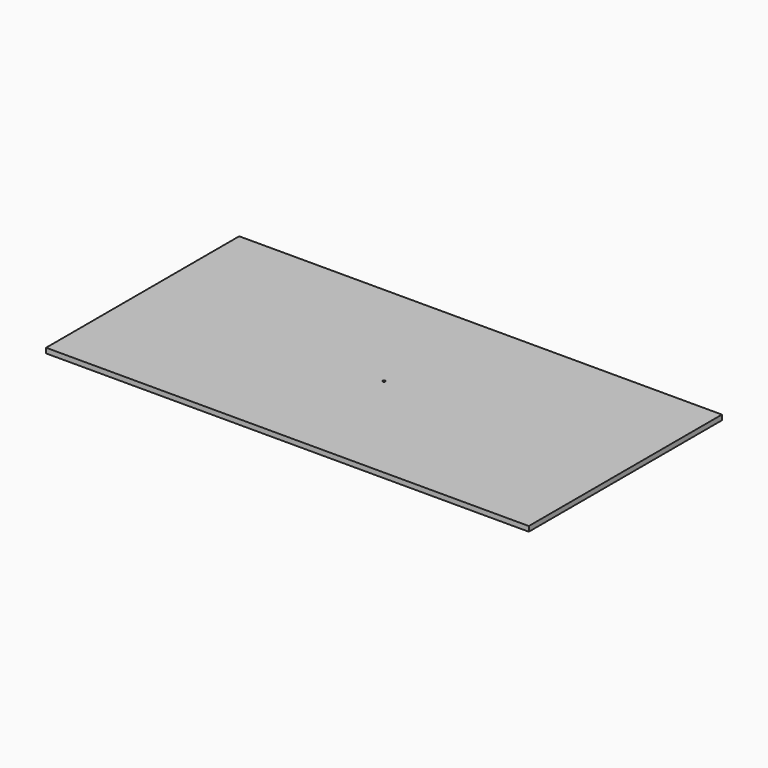
from build123d import *

# Parameters (mm, degrees)
F0_W     = 1219.2
F0_H     = 609.6
F1_DEPTH = 12.7
F3_DEPTH = 25.4


with BuildPart() as f1:
    # F0 (on Top) → F1 (new body)
    with BuildSketch(Plane.XY):
        with Locations((-609.6, 304.8)):
            Rectangle(F0_W, F0_H)
    extrude(amount=F1_DEPTH)

    # F2 (on face) → F3 (cut)
    with BuildSketch(Plane.XY.offset(12.7)):
        with BuildLine():
            ThreePointArc((-609.6, 301.625), (-607.354936, 302.554936), (-606.425, 304.8))
            ThreePointArc((-606.425, 304.8), (-611.845064, 307.045064), (-609.6, 301.625))
        make_face()
    extrude(amount=-F3_DEPTH, mode=Mode.SUBTRACT)


solid = f1.part
